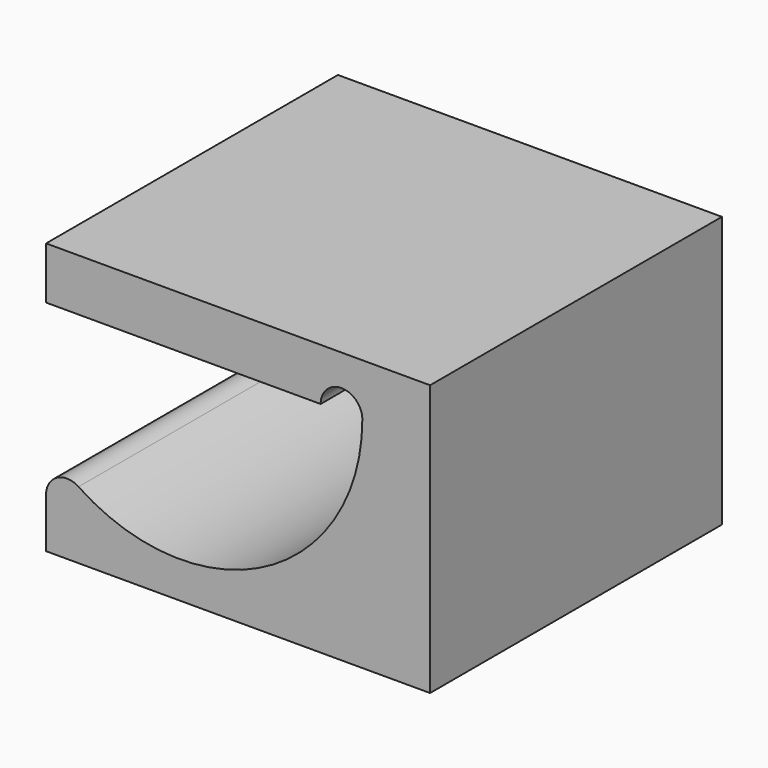
from build123d import *

# Parameters (mm, degrees)
PAD_DEPTH    = 50
SKETCH002_W  = 36.843056
SKETCH002_H  = 26
PAD003_DEPTH = 17.5
FILLET_R     = 2


with BuildPart() as pad:
    # Sketch → Pad (new body, symmetric)
    with BuildSketch(Plane.XZ):
        with BuildLine():
            Line((-13.5, 0), (13.5, 0))
            ThreePointArc((17.5, 0), (15.5, 2), (13.5, 0))
            ThreePointArc((-17.5, 0), (0, -17.5), (17.5, 0))
            ThreePointArc((-13.5, 0), (-15.5, 2), (-17.5, 0))
        make_face()
    extrude(amount=PAD_DEPTH, both=True)


with BuildPart() as fillet_body:
    # Sketch002 → Pad003 (new body, symmetric)
    with BuildSketch(Plane.XZ):
        with Locations((5.578472, -8)):
            Rectangle(SKETCH002_W, SKETCH002_H)
    extrude(amount=PAD003_DEPTH, both=True)

    # Cut: cut Pad
    add(pad.part, mode=Mode.SUBTRACT)

    # Fillet
    fillet_edges = [fillet_body.edges().sort_by_distance(p)[0] for p in [
        (-12.843056, 0, -11.887216),
    ]]
    fillet(fillet_edges, radius=FILLET_R)


solid = fillet_body.part
